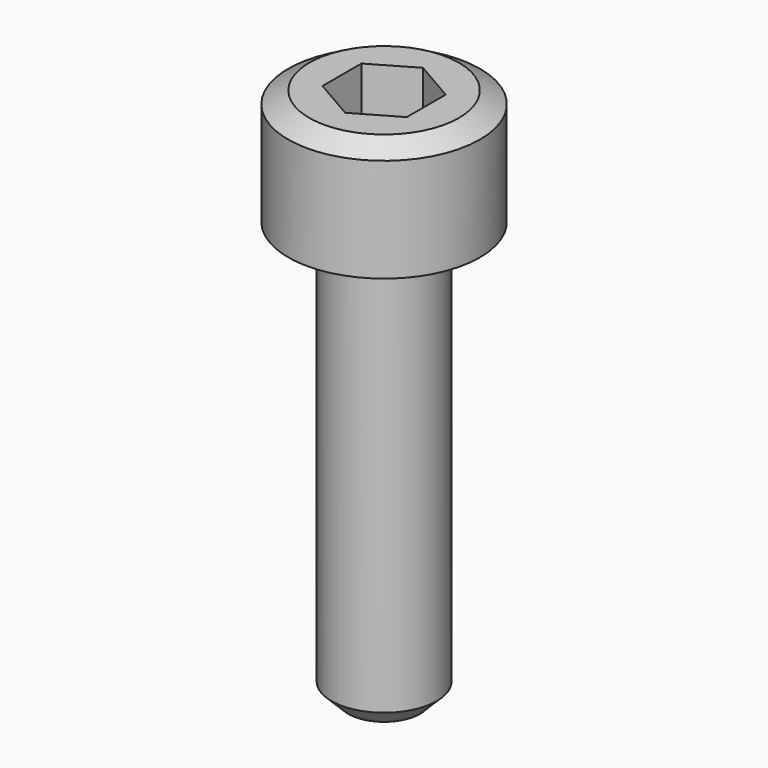
from build123d import *

# Parameters (mm, degrees)
F0_R     = 4.55
F1_DEPTH = 5.5
F2_R     = 2.5
F3_DEPTH = 20
F5_DEPTH = 2.5
F6_SIZE2 = 0.5773502692
F6_SIZE  = 1
F7_SIZE  = 0.8


with BuildPart() as f1:
    # F0 (on Top) → F1 (new body)
    with BuildSketch(Plane.XY):
        Circle(F0_R)
    extrude(amount=-F1_DEPTH)

    # F2 (on face) → F3 (join)
    with BuildSketch(Plane(origin=(0, 0, -5.5), x_dir=(1, 0, 0), z_dir=(0, 0, -1))):
        Circle(F2_R)
    extrude(amount=F3_DEPTH)

    # F4 (on face) → F5 (cut)
    with BuildSketch(Plane.XY):
        Polygon((-2, -1.1547005384), (0, -2.3094010768), (2, -1.1547005384), (2, 1.1547005384), (0, 2.3094010768), (-2, 1.1547005384), align=None)
    extrude(amount=-F5_DEPTH, mode=Mode.SUBTRACT)

    # F6
    f6_edges = [f1.edges().sort_by_distance(p)[0] for p in [
        (-4.55, 0, 0),
    ]]
    f6_side = f1.faces().sort_by_distance((-4.421307, 0, 0))[0]
    chamfer(f6_edges, length=F6_SIZE, length2=F6_SIZE2, reference=f6_side)

    # F7
    f7_edges = [f1.edges().sort_by_distance(p)[0] for p in [
        (-2.5, 0, -25.5),
    ]]
    chamfer(f7_edges, length=F7_SIZE)


solid = f1.part
